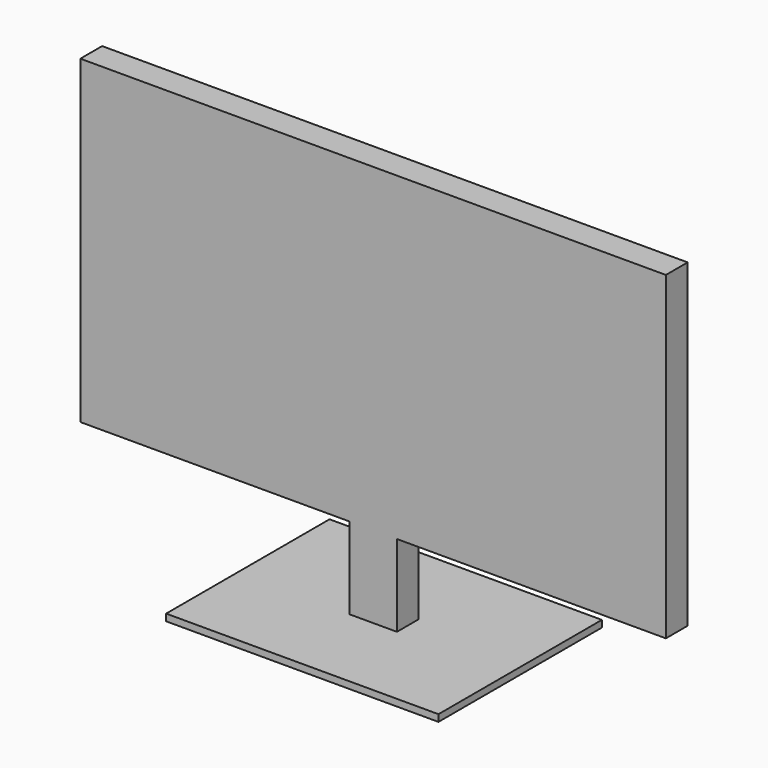
from build123d import *

# Parameters (mm, degrees)
F0_W     = 44.45
F0_H     = 76.2
F1_DEPTH = 12.7
F2_W     = 254
F2_H     = 190.5
F3_DEPTH = 6.35


with BuildPart() as f1:
    # F0 (on Front) → F1 (new body, symmetric)
    with BuildSketch(Plane.XZ):
        Polygon((273.05, -149.19122), (273.05, 149.19122), (-273.05, 149.19122), align=None)
        Polygon((273.05, -149.19122), (-273.05, 149.19122), (-273.05, -149.19122), (-22.225, -149.19122), (22.225, -149.19122), align=None)
        with Locations((0, -187.29122)):
            Rectangle(F0_W, F0_H)
    extrude(amount=F1_DEPTH, both=True)

    # F2 (on face) → F3 (join)
    with BuildSketch(Plane(origin=(0, 0, -225.39122), x_dir=(1, 0, 0), z_dir=(0, 0, -1))):
        Rectangle(F2_W, F2_H)
    extrude(amount=F3_DEPTH)


solid = f1.part
